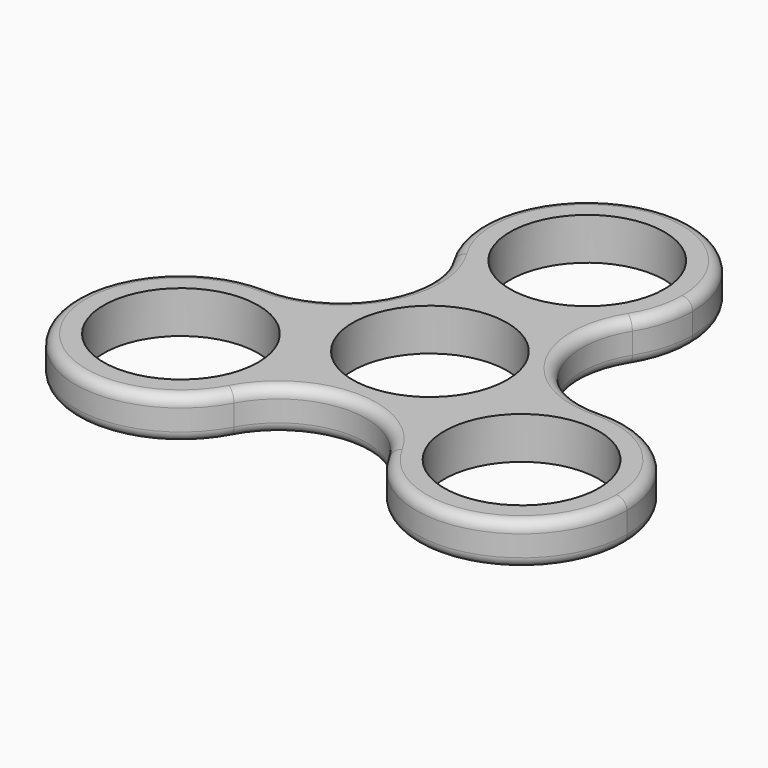
from build123d import *

# Parameters (mm, degrees)
F0_R     = 11
F1_DEPTH = 6
F2_R     = 1.5


with BuildPart() as f1:
    # F0 (on Top) → F1 (new body)
    with BuildSketch(Plane.XY):
        with BuildLine():
            ThreePointArc((12.747872, 20.094828), (14.425985, 23.890139), (15, 28))
            ThreePointArc((15, 28), (-4.109861, 42.425985), (-12.747873, 20.094828))
            ThreePointArc((-12.747873, 20.094828), (0, 13), (12.747872, 20.094828))
        make_face()
        with Locations((0, 28)):
            Circle(F0_R, mode=Mode.SUBTRACT)
        with BuildLine():
            ThreePointArc((12.747872, 20.094828), (0, 13), (-12.747873, 20.094828))
            ThreePointArc((-12.747873, 20.094828), (-11.34792, 16.928619), (-10.869053, 13.5))
            ThreePointArc((-10.869053, 13.5), (-14.674583, 4.513346), (-23.776567, 0.992567))
            ThreePointArc((-23.776567, 0.992567), (-13.476475, -3.561661), (-9.248711, -14))
            ThreePointArc((-9.248711, -14), (-9.700511, -17.653749), (-11.028695, -21.087396))
            ThreePointArc((-11.028695, -21.087396), (0, -14.486367), (11.028695, -21.087395))
            ThreePointArc((11.028695, -21.087395), (11.25833, -6.5), (23.776567, 0.992567))
            ThreePointArc((23.776567, 0.992567), (12.545562, 7.243184), (12.747872, 20.094828))
        make_face()
        Circle(F0_R, mode=Mode.SUBTRACT)
        with BuildLine():
            ThreePointArc((-9.248711, -14), (-13.476475, -3.561661), (-23.776567, 0.992567))
            ThreePointArc((-23.776567, 0.992567), (-37.239093, -21.5), (-11.028695, -21.087396))
            ThreePointArc((-11.028695, -21.087396), (-9.700511, -17.653749), (-9.248711, -14))
        make_face()
        with Locations((-24.248711, -14)):
            Circle(F0_R, mode=Mode.SUBTRACT)
        with BuildLine():
            ThreePointArc((39.248711, -14), (34.68705, -3.227764), (23.776567, 0.992567))
            ThreePointArc((23.776567, 0.992567), (11.25833, -6.5), (11.028695, -21.087395))
            ThreePointArc((11.028695, -21.087395), (27.90246, -28.5482), (39.248711, -14))
        make_face()
        with Locations((24.248711, -14)):
            Circle(F0_R, mode=Mode.SUBTRACT)
    extrude(amount=F1_DEPTH)

    # F2
    f2_edges = [f1.edges().sort_by_distance(p)[0] for p in [
        (-12.545562, 7.243184, 6),
        (-37.239093, -21.5, 0),
    ]]
    fillet(f2_edges, radius=F2_R)


solid = f1.part
